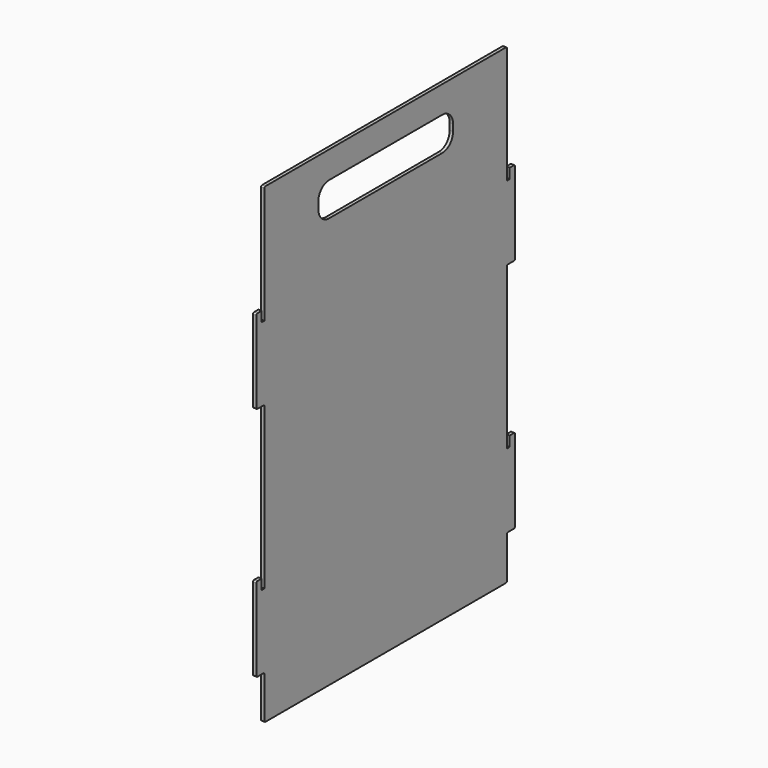
from build123d import *

# Parameters (mm, degrees)
F1_DEPTH = 5


with BuildPart() as f1:
    # F0 (on Right) → F1 (new body)
    with BuildSketch(Plane.YZ):
        with BuildLine():
            ThreePointArc((0, 2), (0.585786, 0.585786), (2, 0))
            Line((2, 0), (448, 0))
            ThreePointArc((448, 0), (449.414214, 0.585786), (450, 2))
            Line((450, 2), (450, 63))
            ThreePointArc((450, 63), (450.585786, 64.414214), (452, 65))
            Line((452, 65), (463, 65))
            ThreePointArc((463, 65), (464.414214, 65.585786), (465, 67))
            Line((465, 67), (465, 188))
            ThreePointArc((465, 188), (464.414214, 189.414214), (463, 190))
            Line((463, 190), (455, 190))
            Line((455, 190), (455, 175))
            Line((455, 175), (450, 175))
            Line((450, 175), (450, 190))
            Line((450, 190), (450, 413))
            ThreePointArc((450, 413), (450.585786, 414.414214), (452, 415))
            Line((452, 415), (463, 415))
            ThreePointArc((463, 415), (464.414214, 415.585786), (465, 417))
            Line((465, 417), (465, 538))
            ThreePointArc((465, 538), (464.414214, 539.414214), (463, 540))
            Line((463, 540), (455, 540))
            Line((455, 540), (455, 525))
            Line((455, 525), (450, 525))
            Line((450, 525), (450, 540))
            Line((450, 540), (450, 698))
            ThreePointArc((450, 698), (449.414214, 699.414214), (448, 700))
            Line((448, 700), (2, 700))
            ThreePointArc((2, 700), (0.585786, 699.414214), (0, 698))
            Line((0, 698), (0, 525))
            Line((0, 525), (-5, 525))
            Line((-5, 525), (-5, 540))
            Line((-5, 540), (-13, 540))
            ThreePointArc((-13, 540), (-14.414214, 539.414214), (-15, 538))
            Line((-15, 538), (-15, 417))
            ThreePointArc((-15, 417), (-14.414214, 415.585786), (-13, 415))
            Line((-13, 415), (-2, 415))
            ThreePointArc((-2, 415), (-0.585786, 414.414214), (0, 413))
            Line((0, 413), (0, 200))
            Line((0, 200), (0, 190))
            Line((0, 190), (0, 175))
            Line((0, 175), (-5, 175))
            Line((-5, 175), (-5, 190))
            Line((-5, 190), (-13, 190))
            ThreePointArc((-13, 190), (-14.414214, 189.414214), (-15, 188))
            Line((-15, 188), (-15, 67))
            ThreePointArc((-15, 67), (-14.414214, 65.585786), (-13, 65))
            Line((-13, 65), (-2, 65))
            ThreePointArc((-2, 65), (-0.585786, 64.414214), (0, 63))
            Line((0, 63), (0, 2))
        make_face()
        with BuildLine():
            ThreePointArc((350, 630), (344.142136, 615.857864), (330, 610))
            Line((330, 610), (120, 610))
            ThreePointArc((120, 610), (105.857864, 615.857864), (100, 630))
            Line((100, 630), (100, 640))
            ThreePointArc((100, 640), (105.857864, 654.142136), (120, 660))
            Line((120, 660), (330, 660))
            ThreePointArc((330, 660), (344.142136, 654.142136), (350, 640))
            Line((350, 640), (350, 630))
        make_face(mode=Mode.SUBTRACT)
    extrude(amount=F1_DEPTH)


solid = f1.part
